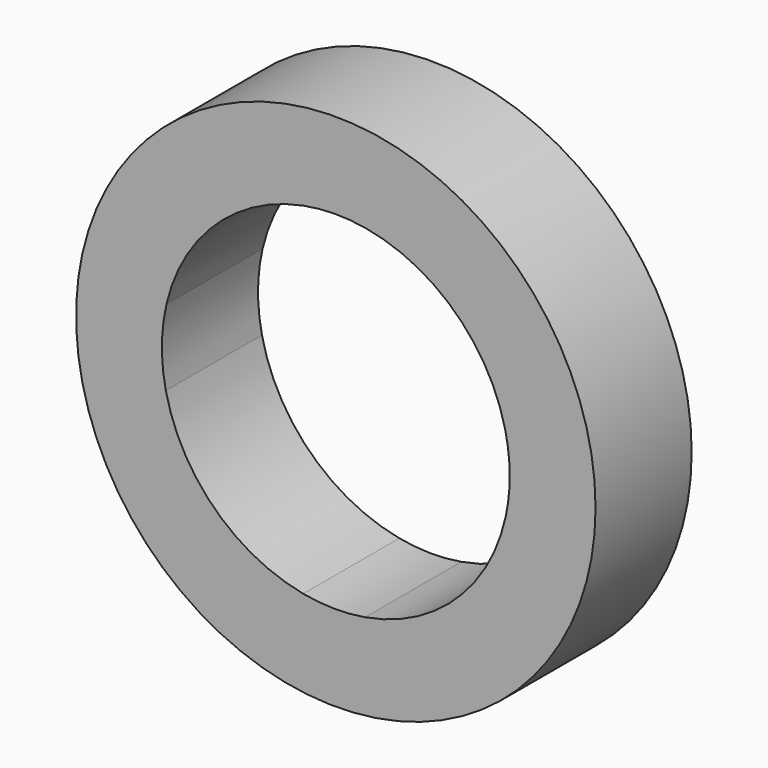
from build123d import *

# Parameters (mm, degrees)
F0_R     = 35.689076
F1_DEPTH = 16.51


with BuildPart() as f1:
    # F0 (on Front) → F1 (new body)
    with BuildSketch(Plane.XZ):
        Circle(F0_R)
        with BuildLine():
            ThreePointArc((23.263181, 5.457692), (23.736379, 2.74706), (23.894811, 0))
            ThreePointArc((23.894811, 0), (23.760547, -2.529514), (23.359261, -5.030601))
            ThreePointArc((23.359261, -5.030601), (16.52961, -17.254971), (4.023372, -23.553651))
            ThreePointArc((4.023372, -23.553651), (-0.231792, -23.893687), (-4.479559, -23.471165))
            ThreePointArc((-4.479559, -23.471165), (-16.696214, -17.093813), (-23.359261, -5.030601))
            ThreePointArc((-23.359261, -5.030601), (-23.893809, 0.218883), (-23.263181, 5.457692))
            ThreePointArc((-23.263181, 5.457692), (-16.53893, 17.246037), (-4.479559, 23.471165))
            ThreePointArc((-4.479559, 23.471165), (-0.231792, 23.893687), (4.023372, 23.553651))
            ThreePointArc((4.023372, 23.553651), (16.370856, 17.405662), (23.263181, 5.457692))
        make_face(mode=Mode.SUBTRACT)
    extrude(amount=F1_DEPTH)


solid = f1.part
